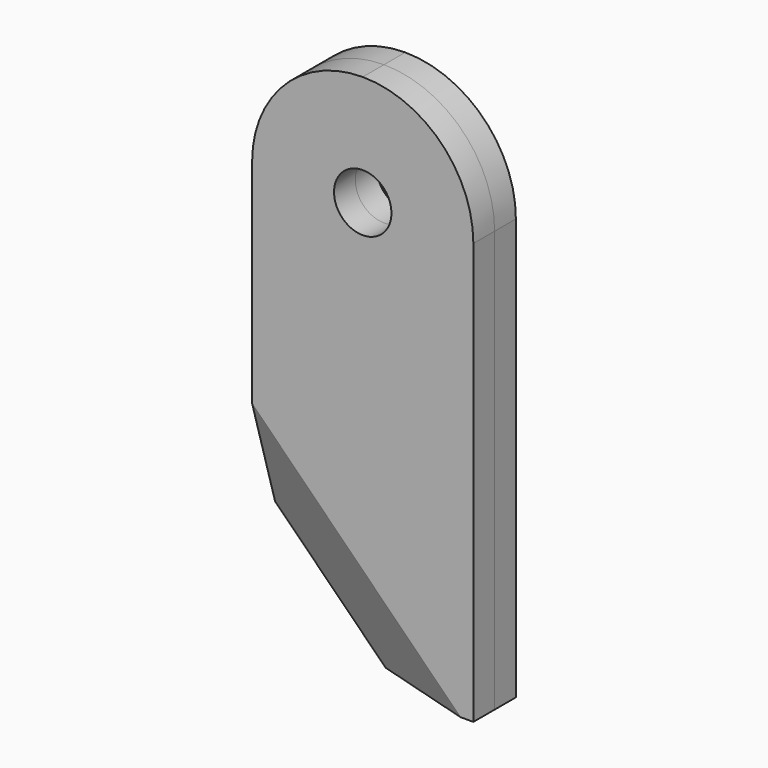
from build123d import *

# Parameters (mm, degrees)
F0_R     = 6.747
F1_DEPTH = 6.25
F6_W     = 58.4241002798
F6_H     = 61.8526525795
F7_DEPTH = 25


with BuildPart() as f1:
    # F0 (on Front) → F1 (new body, symmetric)
    with BuildSketch(Plane.XZ):
        with BuildLine():
            Line((-26, -73), (0, -99))
            Line((0, -99), (26, -99))
            Line((26, -99), (26, 0))
            ThreePointArc((26, 0), (18.3847763109, 18.3847763109), (0, 26))
            ThreePointArc((0, 26), (-18.3847763109, 18.3847763109), (-26, 0))
            Line((-26, 0), (-26, -73))
        make_face()
        Circle(F0_R, mode=Mode.SUBTRACT)
    extrude(amount=F1_DEPTH, both=True)

    # F6 (on 3pt) → F7 (cut)
    with BuildSketch(Plane(origin=(-7.1486595444, -24.3583954848, -7.1486595444), x_dir=(0.9625626784, -0.2600898176, -0.0763307073), z_dir=(-0.2710592004, -0.9236091272, -0.2710592004))):
        with Locations((5.4988376796, -65.5367728323)):
            Rectangle(F6_W, F6_H)
    extrude(amount=F7_DEPTH, mode=Mode.SUBTRACT)


solid = f1.part
